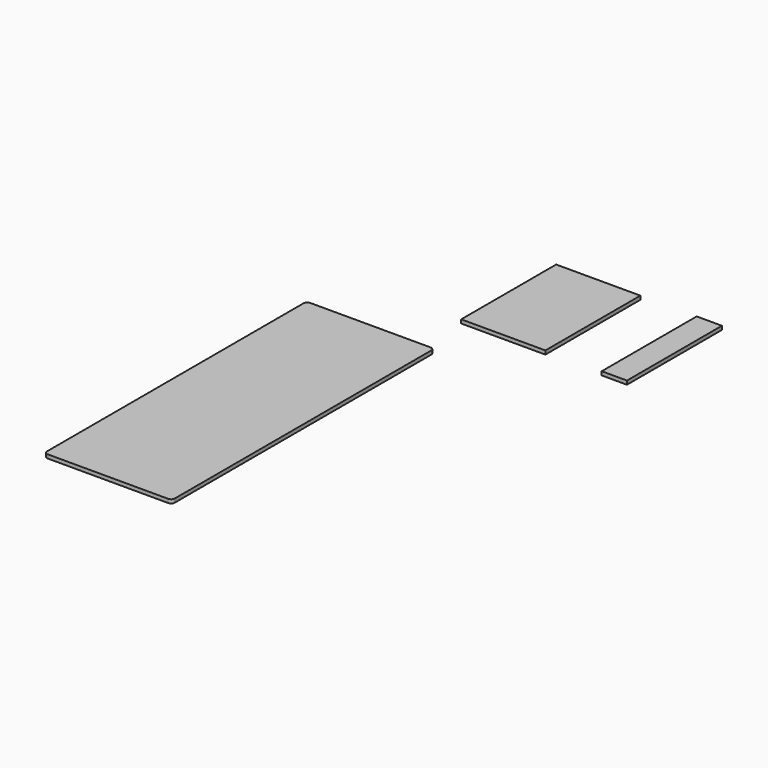
from build123d import *

# Parameters (mm, degrees)
F0_W     = 6.807
F0_H     = 32
F0_W_2   = 22.699
F1_DEPTH = 1


with BuildPart() as f1:
    # F0 (on Top) → F1 (new body)
    with BuildSketch(Plane.XY):
        with Locations((18.585405, 16)):
            Rectangle(F0_W, F0_H)
        with BuildLine():
            Line((-19.756098, -14.022057), (-52.185638, -14.022057))
            ThreePointArc((-52.185638, -14.022057), (-52.892745, -14.31495), (-53.185638, -15.022057))
            Line((-53.185638, -15.022057), (-53.185638, -101.437507))
            ThreePointArc((-53.185638, -101.437507), (-52.892745, -102.144613), (-52.185638, -102.437507))
            Line((-52.185638, -102.437507), (-19.756098, -102.437507))
            ThreePointArc((-19.756098, -102.437507), (-19.048991, -102.144613), (-18.756098, -101.437507))
            Line((-18.756098, -101.437507), (-18.756098, -15.022057))
            ThreePointArc((-18.756098, -15.022057), (-19.048991, -14.31495), (-19.756098, -14.022057))
        make_face()
        with Locations((-11.3495, 16)):
            Rectangle(F0_W_2, F0_H)
    extrude(amount=F1_DEPTH)


solid = f1.part
